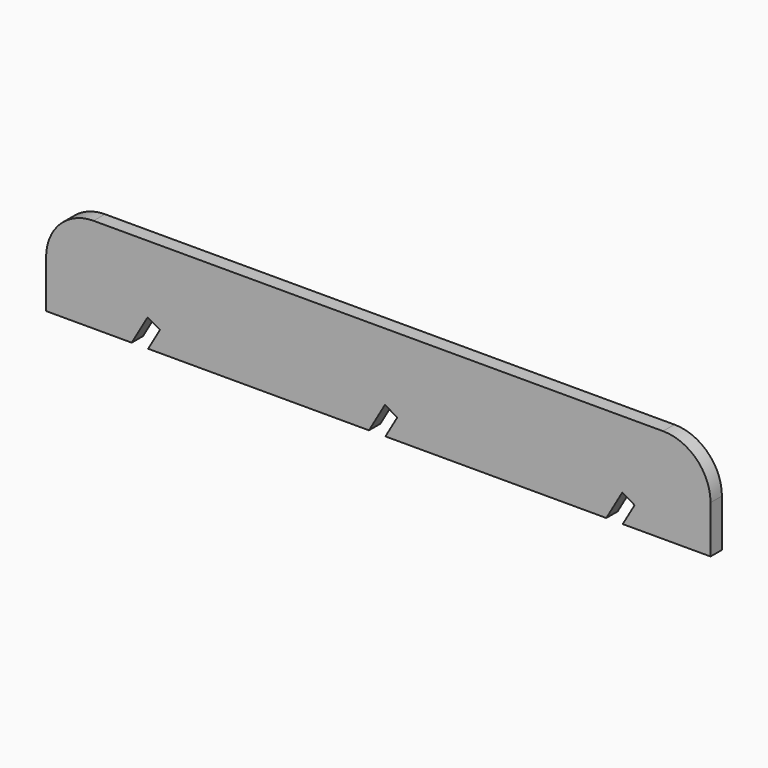
from build123d import *

# Parameters (mm, degrees)
F1_DEPTH = 3


with BuildPart() as f1:
    # F0 (on Front) → F1 (new body)
    with BuildSketch(Plane.XZ):
        with BuildLine():
            Line((-70, 0), (-70, -10))
            Line((-70, -10), (-51.964102, -10))
            Line((-51.964102, -10), (-48.598076, -4.169873))
            Line((-48.598076, -4.169873), (-46, -5.669873))
            Line((-46, -5.669873), (-48.5, -10))
            Line((-48.5, -10), (-1.964102, -10))
            Line((-1.964102, -10), (1.401924, -4.169873))
            Line((1.401924, -4.169873), (4, -5.669873))
            Line((4, -5.669873), (1.5, -10))
            Line((1.5, -10), (48.035898, -10))
            Line((48.035898, -10), (51.401924, -4.169873))
            Line((51.401924, -4.169873), (54, -5.669873))
            Line((54, -5.669873), (51.5, -10))
            Line((51.5, -10), (70, -10))
            Line((70, -10), (70, 0))
            ThreePointArc((70, 0), (67.071068, 7.071068), (60, 10))
            Line((60, 10), (-60, 10))
            ThreePointArc((-60, 10), (-67.071068, 7.071068), (-70, 0))
        make_face()
    extrude(amount=F1_DEPTH)


solid = f1.part
